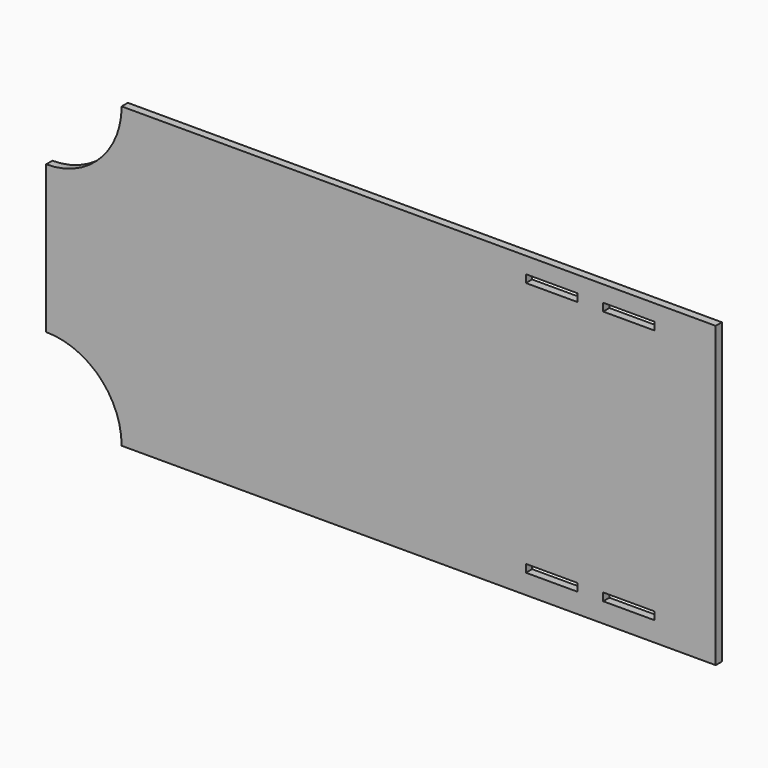
from build123d import *

# Parameters (mm, degrees)
F0_W     = 127
F0_H     = 19.177
F1_DEPTH = 19.177


with BuildPart() as f1:
    # F0 (on Front) → F1 (new body)
    with BuildSketch(Plane.XZ):
        with BuildLine():
            Line((640.875998, 380.300992), (-823.862931, 380.300992))
            ThreePointArc((-823.862931, 380.300992), (-878.417535, 248.594525), (-1010.124002, 194.039921))
            Line((-1010.124002, 194.039921), (-1010.124002, -170.037937))
            ThreePointArc((-1010.124002, -170.037937), (-878.417535, -224.592541), (-823.862931, -356.299008))
            Line((-823.862931, -356.299008), (640.875998, -356.299008))
            Line((640.875998, -356.299008), (640.875998, 380.300992))
        make_face()
        with Locations((236.467872, -298.120308)):
            Rectangle(F0_W, F0_H, mode=Mode.SUBTRACT)
        with Locations((426.967872, -298.120308)):
            Rectangle(F0_W, F0_H, mode=Mode.SUBTRACT)
        with Locations((236.457198, 330.656692)):
            Rectangle(F0_W, F0_H, mode=Mode.SUBTRACT)
        with Locations((426.957198, 330.656692)):
            Rectangle(F0_W, F0_H, mode=Mode.SUBTRACT)
    extrude(amount=F1_DEPTH)


solid = f1.part
